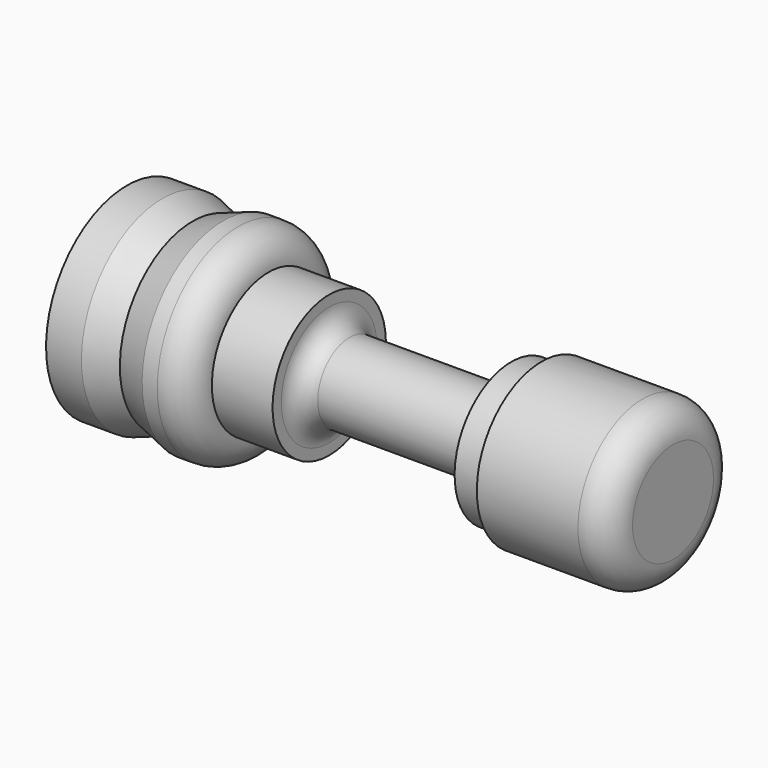
from build123d import *


with BuildPart() as f1:
    # F0 (on Front) → F1 (revolve)
    with BuildSketch(Plane.XZ):
        with BuildLine():
            Line((0, 10), (0, 0))
            Line((0, 0), (3.5, 0))
            Line((3.5, 0), (6.5, 1))
            Line((6.5, 1), (9.5, 0))
            Line((9.5, 0), (11, 0))
            ThreePointArc((11, 0), (13.12132, 0.87868), (14, 3))
            Line((14, 3), (20, 3))
            Line((20, 3), (20, 4.083384))
            ThreePointArc((20, 4.083384), (20.585786, 5.497598), (22, 6.083384))
            Line((22, 6.083384), (36, 6.083384))
            ThreePointArc((36, 6.083384), (37.414214, 5.497598), (38, 4.083384))
            Line((38, 4.083384), (38, 3))
            Line((38, 3), (41, 3))
            Line((41, 3), (41, 2))
            Line((41, 2), (51, 2))
            ThreePointArc((51, 2), (53.12132, 2.87868), (54, 5))
            Line((54, 5), (54, 10))
            Line((54, 10), (41, 10))
            Line((41, 10), (38, 10))
            Line((38, 10), (20, 10))
            Line((20, 10), (14, 10))
            Line((14, 10), (9.5, 10))
            Line((9.5, 10), (6.5, 9))
            Line((6.5, 9), (3.5, 10))
            Line((3.5, 10), (0, 10))
        make_face()
    revolve(axis=Axis((26.417072, 0, 10), (1, 0, 0)))


solid = f1.part
